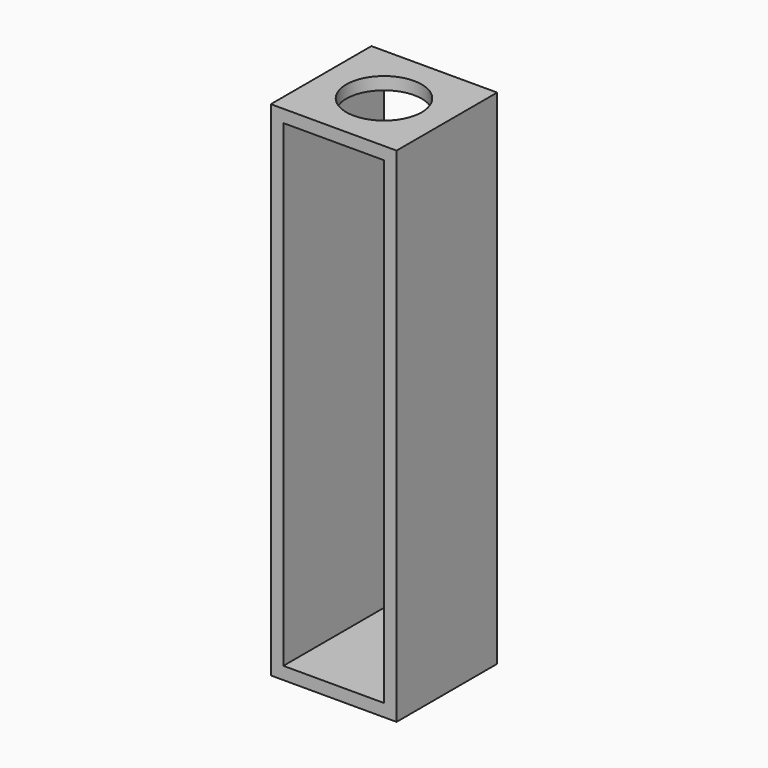
from build123d import *

# Parameters (mm, degrees)
F0_W     = 50
F0_H     = 200
F0_W_2   = 40
F0_H_2   = 190
F1_DEPTH = 50
F2_R     = 15
F3_DEPTH = 5


with BuildPart() as f1:
    # F0 (on Front) → F1 (new body)
    with BuildSketch(Plane.XZ):
        with Locations((25, 100)):
            Rectangle(F0_W, F0_H)
        with Locations((25, 100)):
            Rectangle(F0_W_2, F0_H_2, mode=Mode.SUBTRACT)
    extrude(amount=F1_DEPTH)

    # F2 (on face) → F3 (cut, through all)
    with BuildSketch(Plane.XY.offset(200)):
        with Locations((25, -25)):
            Circle(F2_R)
    extrude(amount=-F3_DEPTH, mode=Mode.SUBTRACT)


solid = f1.part
